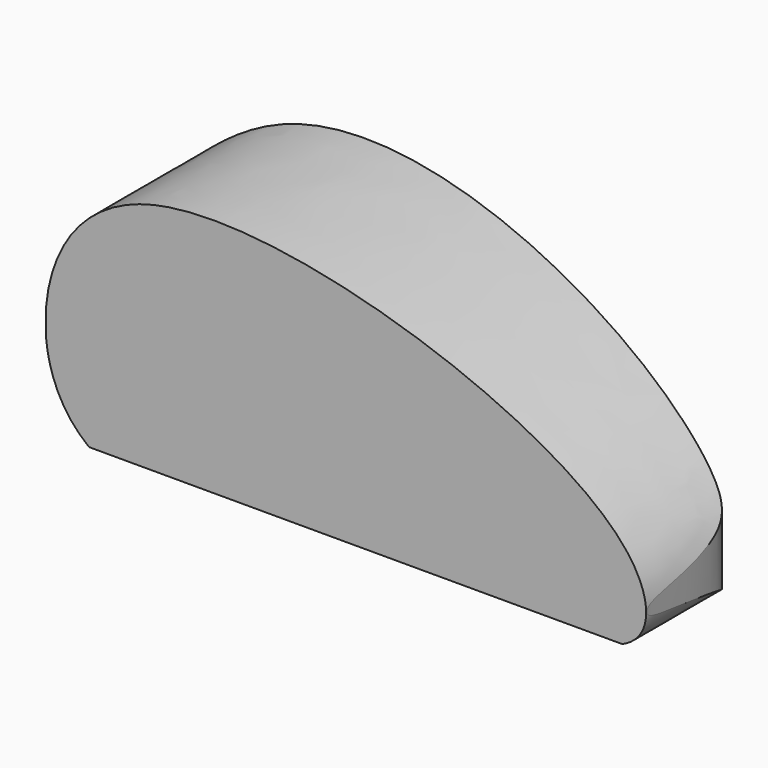
from build123d import *

# Parameters (mm, degrees)
F3_DEPTH = 250
F4_DEPTH = 250


with BuildPart() as f3:
    # F0 (on Front) → F3 (new body)
    with BuildSketch(Plane.XZ):
        with BuildLine():
            add(Edge.make_bspline(
                [(58.062504977, 0), (31.4367043312, 20.5456468414), (16.8264120946, 50.9570082847), (13.7325087562, 84.9805046559)],
                knots=[0, 0, 0, 0, 0.1546543823, 0.1546543823, 0.1546543823, 0.1546543823], degree=3))
            Line((58.062504977, 0), (608.062504977, 0))
            add(Edge.make_bspline(
                [(13.7325087562, 113.1747812033), (18.3701609499, 166.6226079004), (101.0893396349, 323.8556071428), (644.3136172726, 144.9650068964), (640.6924128532, 13.6649729684), (608.062504977, 0)],
                knots=[0.1963651419, 0.1963651419, 0.1963651419, 0.1963651419, 0.4290969578, 0.829372936, 1, 1, 1, 1], degree=3))
            Line((13.7325087562, 113.1747812033), (13.7325087562, 84.9805046559))
        make_face()
    extrude(amount=-F3_DEPTH)

    # F2 (on face) → F4 (intersect)
    with BuildSketch(Plane.XY):
        with BuildLine():
            Line((13.7325087562, 0), (633.0142021179, 0))
            add(Edge.make_bspline(
                [(13.7325087562, 0), (13.7123257033, 8.0365212439), (13.8735731257, 27.4406207621), (12.9035521578, 81.9792712357), (78.7016949957, 244.1011130395), (587.2761662886, 135.4236924082), (631.8647147151, 114.5904999218), (631.6041946411, 16.7225841433), (633.0142021179, 0)],
                knots=[0, 0, 0, 0, 0.0805012554, 0.1942979912, 0.3772851149, 0.7262722041, 0.8400202755, 1, 1, 1, 1], degree=3))
        make_face()
    extrude(amount=F4_DEPTH, mode=Mode.INTERSECT)


solid = f3.part
